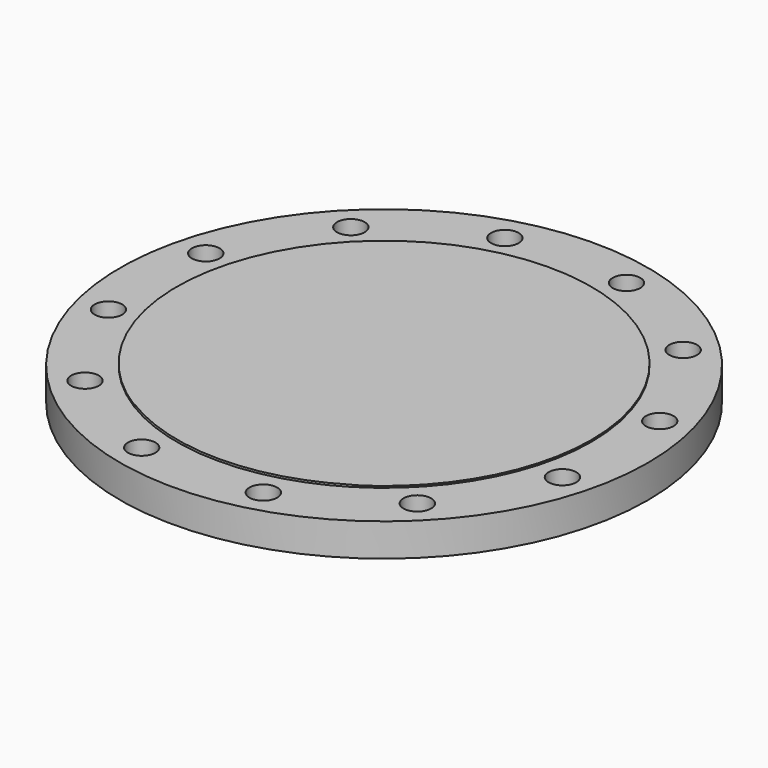
from build123d import *

# Parameters (mm, degrees)
F2_R     = 242.5
F2_R_2   = 12.7
F2_R_3   = 190.5
F4_DEPTH = 30.2
F5_DEPTH = 31.8


with BuildPart() as f4:
    # F2 (on Top) → F4 (new body)
    with BuildSketch(Plane.XY):
        Circle(F2_R)
        with Locations((-152.6643540582, -152.6643540582)):
            Circle(F2_R_2, mode=Mode.SUBTRACT)
        with Locations((-55.8790318376, -208.5433858958)):
            Circle(F2_R_2, mode=Mode.SUBTRACT)
        with Locations((-208.5433858958, -55.8790318376)):
            Circle(F2_R_2, mode=Mode.SUBTRACT)
        with Locations((55.8790318376, -208.5433858958)):
            Circle(F2_R_2, mode=Mode.SUBTRACT)
        with Locations((152.6643540582, -152.6643540582)):
            Circle(F2_R_2, mode=Mode.SUBTRACT)
        with Locations((208.5433858958, -55.8790318376)):
            Circle(F2_R_2, mode=Mode.SUBTRACT)
        with Locations((-208.5433858958, 55.8790318376)):
            Circle(F2_R_2, mode=Mode.SUBTRACT)
        with Locations((-152.6643540582, 152.6643540582)):
            Circle(F2_R_2, mode=Mode.SUBTRACT)
        with Locations((-55.8790318376, 208.5433858958)):
            Circle(F2_R_2, mode=Mode.SUBTRACT)
        Circle(F2_R_3, mode=Mode.SUBTRACT)
        with Locations((208.5433858958, 55.8790318376)):
            Circle(F2_R_2, mode=Mode.SUBTRACT)
        with Locations((55.8790318376, 208.5433858958)):
            Circle(F2_R_2, mode=Mode.SUBTRACT)
        with Locations((152.6643540582, 152.6643540582)):
            Circle(F2_R_2, mode=Mode.SUBTRACT)
    extrude(amount=F4_DEPTH)

    # F3 (on face) → F5 (join)
    with BuildSketch(Plane.XY):
        with BuildLine():
            Line((-100, -162.1426840779), (-100, -161.554944214))
            ThreePointArc((-100, -161.554944214), (0, -190), (100, -161.554944214))
            Line((100, -161.554944214), (100, -162.1426840779))
            ThreePointArc((100, -162.1426840779), (166.3433948193, -92.8446282776), (190.5, 0))
            ThreePointArc((190.5, 0), (-92.8446282776, 166.3433948193), (-100, -162.1426840779))
        make_face()
    extrude(amount=F5_DEPTH)


solid = f4.part
